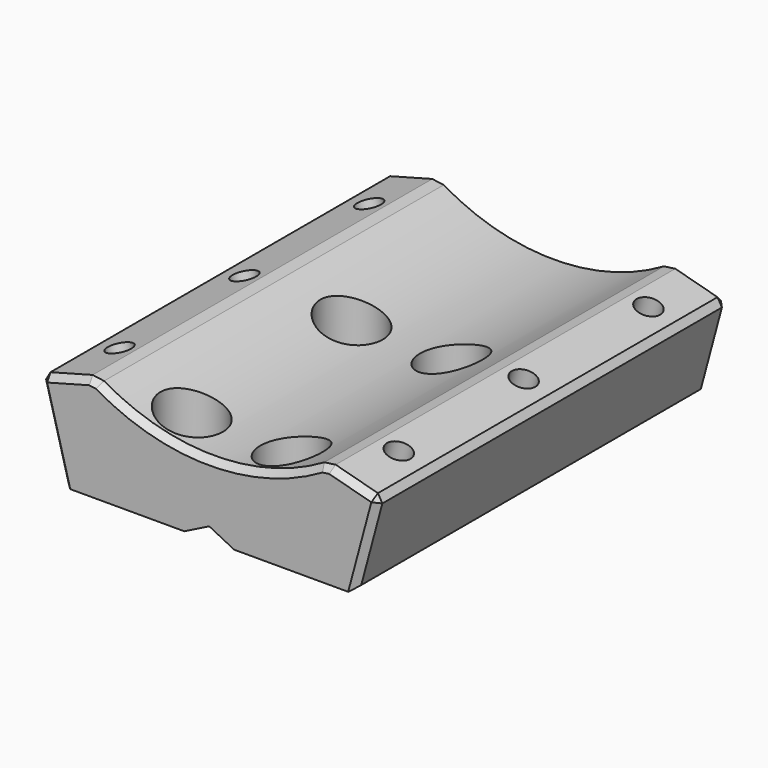
from build123d import *

# Parameters (mm, degrees)
PAD_DEPTH       = 70
SKETCH001_R     = 2.6
POCKET_DEPTH    = 16.870811
SKETCH002_R     = 5
POCKET001_DEPTH = 11.870811
SKETCH003_R     = 1.95
POCKET002_DEPTH = 28.12229
SKETCH004_R     = 1.95
POCKET003_DEPTH = 28.12229
POCKET004_DEPTH = 21.37229
POCKET005_DEPTH = 21.37229
CHAMFER_SIZE    = 1


with BuildPart() as part:
    # Sketch → Pad (new body)
    with BuildSketch(Plane.XZ):
        with BuildLine():
            Line((-12.5, 0), (-4, 0))
            Line((-4, 0), (0, 2))
            Line((0, 2), (4, 0))
            Line((4, 0), (12.5, 0))
            Line((12.5, 0), (23.297234, 0))
            Line((27.193332, 14.540439), (23.297234, 0))
            Line((18.5, 16.869811), (27.193332, 14.540439))
            ThreePointArc((-18.5, 16.869811), (0, 11.58092), (18.5, 16.869811))
            Line((-18.5, 16.869811), (-27.193332, 14.540439))
            Line((-27.193332, 14.540439), (-23.297234, 0))
            Line((-12.5, 0), (-23.297234, 0))
        make_face()
    extrude(amount=PAD_DEPTH)

    # Sketch001 (on Face1 of Pad) → Pocket (cut, through all)
    with BuildSketch(Plane(origin=(0, 0, 0), x_dir=(1, 0, 0), z_dir=(0, 0, -1))):
        with Locations((-8, 63.5)):
            Circle(SKETCH001_R)
        with Locations((8, 63.5)):
            Circle(SKETCH001_R)
        with Locations((-8, 31.5)):
            Circle(SKETCH001_R)
        with Locations((8, 31.5)):
            Circle(SKETCH001_R)
    extrude(amount=-POCKET_DEPTH, mode=Mode.SUBTRACT)

    # Sketch002 → Pocket001 (cut, through all)
    with BuildSketch(Plane(origin=(0, 0, 5), x_dir=(1, 0, 0), z_dir=(0, 0, -1))):
        with Locations((-8, 63.5)):
            Circle(SKETCH002_R)
        with Locations((8, 63.5)):
            Circle(SKETCH002_R)
        with Locations((8, 31.5)):
            Circle(SKETCH002_R)
        with Locations((-8, 31.5)):
            Circle(SKETCH002_R)
    extrude(amount=-POCKET001_DEPTH, mode=Mode.SUBTRACT)

    # Sketch003 (on Face15 of Pocket001) → Pocket002 (cut, through all)
    with BuildSketch(Plane(origin=(-5.456718, 0, 20.364748), x_dir=(-0.965926, 0, -0.258819), z_dir=(-0.258819, 0, 0.965926))):
        with Locations((17.5034, 60)):
            Circle(SKETCH003_R)
        with Locations((17.5034, 35)):
            Circle(SKETCH003_R)
        with Locations((17.5034, 10)):
            Circle(SKETCH003_R)
    extrude(amount=-POCKET002_DEPTH, mode=Mode.SUBTRACT)

    # Sketch004 (on Face16 of Pocket002) → Pocket003 (cut, through all)
    with BuildSketch(Plane(origin=(5.456718, 0, 20.364748), x_dir=(-0.965926, 0, 0.258819), z_dir=(0.258819, 0, 0.965926))):
        with Locations((-17.5034, 60)):
            Circle(SKETCH004_R)
        with Locations((-17.5034, 35)):
            Circle(SKETCH004_R)
        with Locations((-17.5034, 10)):
            Circle(SKETCH004_R)
    extrude(amount=-POCKET003_DEPTH, mode=Mode.SUBTRACT)

    # Sketch005 (on DatumPlane) → Pocket004 (cut, through all)
    with BuildSketch(Plane(origin=(3.709689, 0, 13.844748), x_dir=(-0.965926, 0, 0.258819), z_dir=(0.258819, 0, 0.965926))):
        Polygon((-13.5034, 62.309401), (-17.5034, 64.618802), (-21.5034, 62.309401), (-21.5034, 57.690599), (-17.5034, 55.381198), (-13.5034, 57.690599), align=None)
        Polygon((-13.5034, 37.309401), (-17.5034, 39.618802), (-21.5034, 37.309401), (-21.5034, 32.690599), (-17.5034, 30.381198), (-13.5034, 32.690599), align=None)
        Polygon((-13.5034, 12.309401), (-17.5034, 14.618802), (-21.5034, 12.309401), (-21.5034, 7.690599), (-17.5034, 5.381198), (-13.5034, 7.690599), align=None)
    extrude(amount=-POCKET004_DEPTH, mode=Mode.SUBTRACT)

    # Sketch006 (on DatumPlane) → Pocket005 (cut, through all)
    with BuildSketch(Plane(origin=(-3.709689, 0, 13.844748), x_dir=(-0.965926, 0, -0.258819), z_dir=(-0.258819, 0, 0.965926))):
        Polygon((21.5034, 62.309401), (17.5034, 64.618802), (13.5034, 62.309401), (13.5034, 57.690599), (17.5034, 55.381198), (21.5034, 57.690599), align=None)
        Polygon((21.5034, 37.309401), (17.5034, 39.618802), (13.5034, 37.309401), (13.5034, 32.690599), (17.5034, 30.381198), (21.5034, 32.690599), align=None)
        Polygon((21.5034, 12.309401), (17.5034, 14.618802), (13.5034, 12.309401), (13.5034, 7.690599), (17.5034, 5.381198), (21.5034, 7.690599), align=None)
    extrude(amount=-POCKET005_DEPTH, mode=Mode.SUBTRACT)

    # Chamfer
    chamfer_edges = [part.edges().sort_by_distance(p)[0] for p in [
        (-25.245283, -70, 7.27022),
        (-27.193332, -35, 14.540439),
        (-22.846666, -70, 15.705125),
        (-18.5, -35, 16.869811),
        (-22.846666, 0, 15.705125),
        (-25.245283, 0, 7.27022),
        (22.846666, -70, 15.705125),
        (18.5, -35, 16.869811),
        (27.193332, -35, 14.540439),
        (22.846666, 0, 15.705125),
        (25.245283, -70, 7.27022),
        (25.245283, 0, 7.27022),
        (23.297234, -35, 0),
        (0, 0, 11.58092),
        (0, -70, 11.58092),
    ]]
    chamfer(chamfer_edges, length=CHAMFER_SIZE)


solid = part.part
